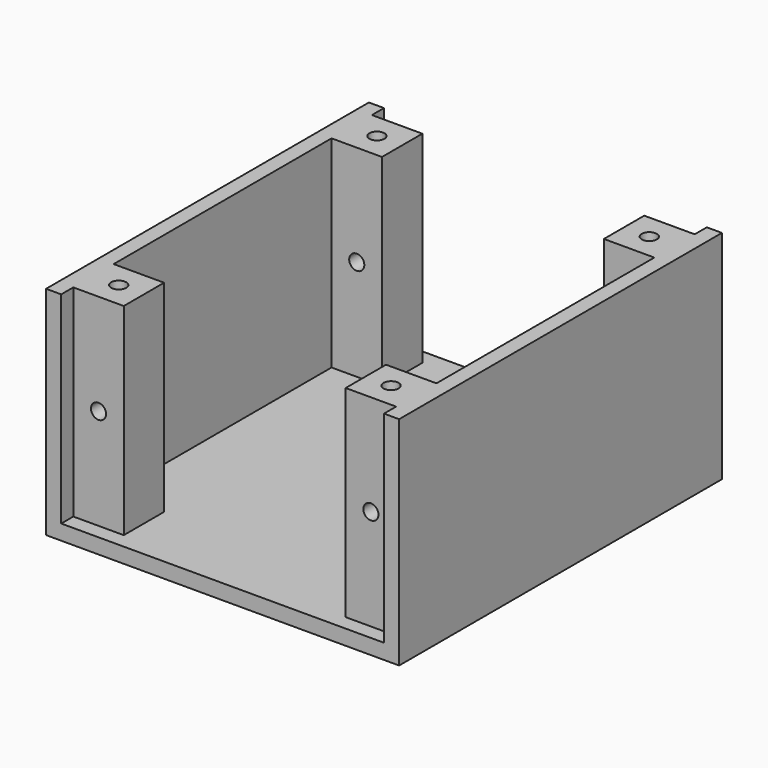
from build123d import *

# Parameters (mm, degrees)
SKETCH_W     = 70
SKETCH_H     = 80
PAD_DEPTH    = 3
SKETCH001_R  = 1.5
PAD001_DEPTH = 40
SKETCH002_R  = 1.5
POCKET_DEPTH = 77.001


with BuildPart() as part:
    # Sketch → Pad (new body)
    with BuildSketch(Plane.XY):
        with Locations((0, 40)):
            Rectangle(SKETCH_W, SKETCH_H)
    extrude(amount=PAD_DEPTH)

    # Sketch001 (on Face6 of Pad) → Pad001 (join)
    with BuildSketch(Plane.XY.offset(3)):
        Polygon((-35, 0), (-35, 80), (-32, 80), (-32, 77), (-22, 77), (-22, 67), (-32, 67), (-32, 13), (-22, 13), (-22, 3), (-32, 3), (-32, 0), align=None)
        with Locations((-27, 8)):
            Circle(SKETCH001_R, mode=Mode.SUBTRACT)
        with Locations((-27, 72)):
            Circle(SKETCH001_R, mode=Mode.SUBTRACT)
        Polygon((35, 80), (35, 0), (32, 0), (32, 3), (22, 3), (22, 13), (32, 13), (32, 67), (22, 67), (22, 77), (32, 77), (32, 80), align=None)
        with Locations((27, 8)):
            Circle(SKETCH001_R, mode=Mode.SUBTRACT)
        with Locations((27, 72)):
            Circle(SKETCH001_R, mode=Mode.SUBTRACT)
    extrude(amount=PAD001_DEPTH)

    # Sketch002 (on Face21 of Pad001) → Pocket (cut, through all)
    with BuildSketch(Plane.XZ.offset(-3)):
        with Locations((27, 23)):
            Circle(SKETCH002_R)
        with Locations((-27, 23)):
            Circle(SKETCH002_R)
    extrude(amount=-POCKET_DEPTH, mode=Mode.SUBTRACT)


solid = part.part
